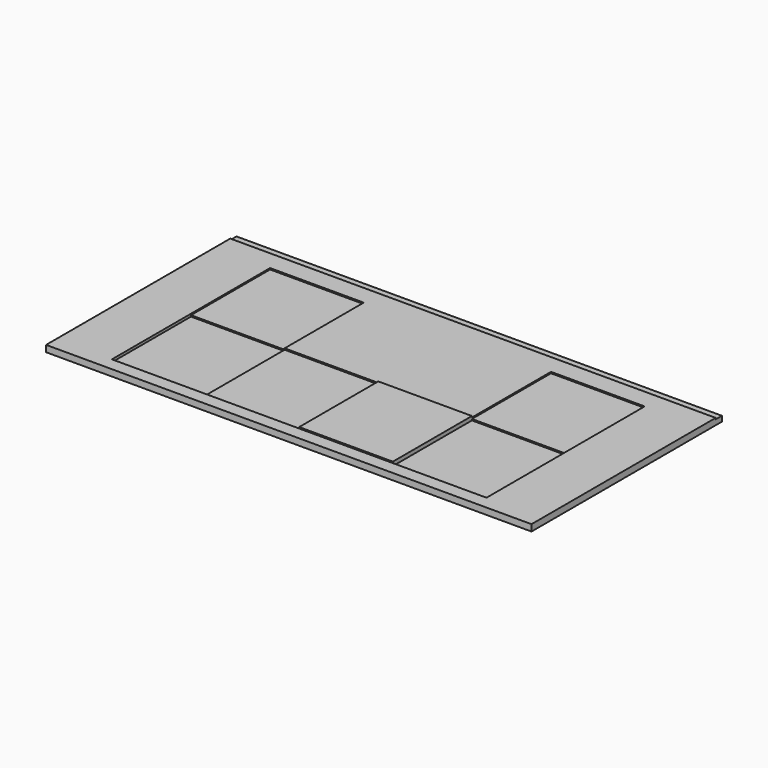
from build123d import *

# Parameters (mm, degrees)
F0_W     = 1866
F0_H     = 885
F1_DEPTH = 25
F0_H_2   = 30
F0_W_2   = 360
F0_H_3   = 380
F2_DEPTH = 20
F3_DEPTH = 15
F4_DEPTH = 30


with BuildPart() as f1:
    # F0 (on Top) → F1 (new body)
    with BuildSketch(Plane.XY):
        with Locations((933, 442.5)):
            Rectangle(F0_W, F0_H)
        Polygon((573, 50), (213, 50), (213, 430), (213, 810), (573, 810), (573, 430), (933, 430), (1293, 430), (1293, 810), (1653, 810), (1653, 430), (1653, 50), (1293, 50), (933, 50), align=None, mode=Mode.SUBTRACT)
    extrude(amount=F1_DEPTH)

    # F0 (on Top) → F2 (join)
    with BuildSketch(Plane.XY):
        with Locations((933, 900)):
            Rectangle(F0_W, F0_H_2)
        with Locations((393, 620)):
            Rectangle(F0_W_2, F0_H_3)
        with Locations((753, 240)):
            Rectangle(F0_W_2, F0_H_3)
        with Locations((1473, 620)):
            Rectangle(F0_W_2, F0_H_3)
    extrude(amount=F2_DEPTH)

    # F0 (on Top) → F3 (join)
    with BuildSketch(Plane.XY):
        with Locations((1473, 240)):
            Rectangle(F0_W_2, F0_H_3)
        with Locations((393, 240)):
            Rectangle(F0_W_2, F0_H_3)
    extrude(amount=F3_DEPTH)

    # F0 (on Top) → F4 (join)
    with BuildSketch(Plane.XY):
        with Locations((1113, 240)):
            Rectangle(F0_W_2, F0_H_3)
    extrude(amount=F4_DEPTH)


solid = f1.part
